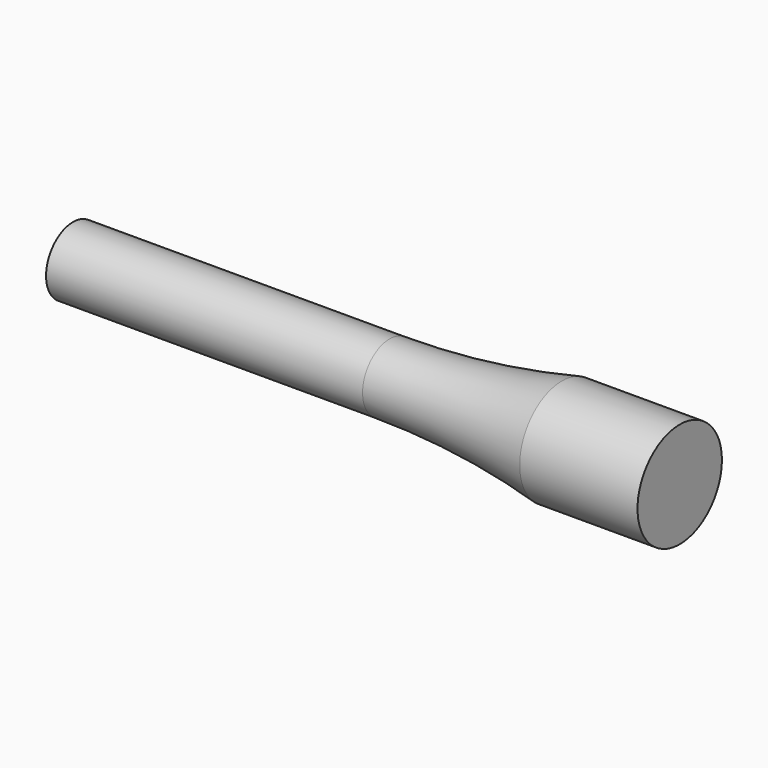
from build123d import *


with BuildPart() as part:
    # Sketch → Revolution (revolve)
    with BuildSketch(Plane.XY):
        with BuildLine():
            Line((0, 0), (0, 3.2))
            Line((0, 3.2), (30, 3.2))
            ThreePointArc((30, 3.2), (38.215838, 3.651358), (46.332789, 5))
            Line((46.332789, 5), (57.5, 5))
            Line((57.5, 5), (57.5, 0))
            Line((57.5, 0), (0, 0))
        make_face()
    revolve(axis=Axis((0, 0, 0), (1, 0, 0)))


solid = part.part
